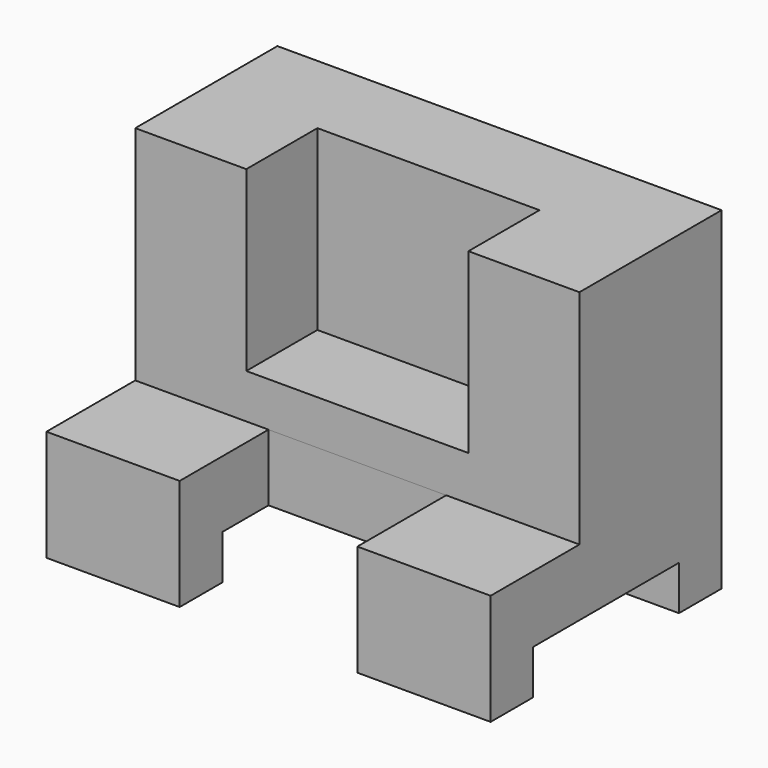
from build123d import *

# Parameters (mm, degrees)
PAD_DEPTH       = 50
SKETCH001_W     = 41
SKETCH001_H     = 16.329009
POCKET_DEPTH    = 100.001
SKETCH002_W     = 51.750069
SKETCH002_H     = 50
POCKET001_DEPTH = 20
SKETCH003_W     = 42.391335
SKETCH003_H     = 40
POCKET002_DEPTH = 25.001


with BuildPart() as part:
    # Sketch → Pad (new body, symmetric)
    with BuildSketch(Plane.YZ):
        Polygon((-32.5, 0), (32.5, 0), (32.5, 75), (-7.5, 75), (-7.5, 25), (-32.5, 25), align=None)
    extrude(amount=PAD_DEPTH, both=True)

    # Sketch001 → Pocket (cut, through all)
    with BuildSketch(Plane.YZ.offset(50)):
        with Locations((0, 1.835495)):
            Rectangle(SKETCH001_W, SKETCH001_H)
    extrude(amount=-POCKET_DEPTH, mode=Mode.SUBTRACT)

    # Sketch002 → Pocket001 (cut)
    with BuildSketch(Plane(origin=(0, -7.5, 0), x_dir=(0, 0, -1), z_dir=(0, -1, 0))):
        with Locations((-60.875034, 0)):
            Rectangle(SKETCH002_W, SKETCH002_H)
    extrude(amount=-POCKET001_DEPTH, mode=Mode.SUBTRACT)

    # Sketch003 → Pocket002 (cut, through all)
    with BuildSketch(Plane(origin=(0, 0, 25), x_dir=(0, -1, 0), z_dir=(0, 0, 1))):
        with Locations((28.695667, 0)):
            Rectangle(SKETCH003_W, SKETCH003_H)
    extrude(amount=-POCKET002_DEPTH, mode=Mode.SUBTRACT)


solid = part.part
